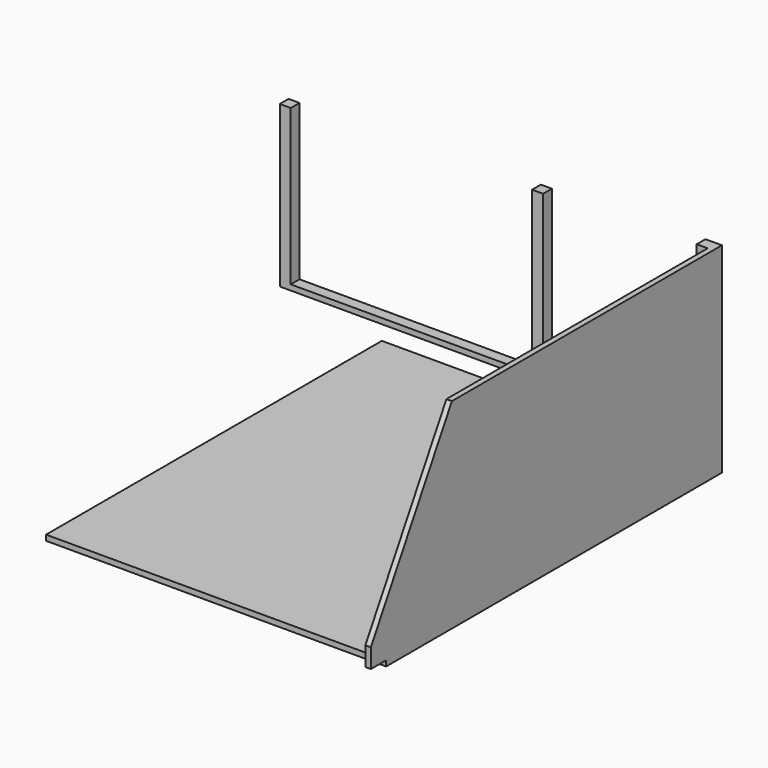
from build123d import *

# Parameters (mm, degrees)
F1_DEPTH = 20
F2_W     = 20
F2_H     = 315
F3_DEPTH = 10
F4_SIZE2 = 184.7520861407
F4_SIZE  = 320
F5_W     = 610
F5_H     = 765
F5_W_2   = 10
F6_DEPTH = 10


with BuildPart() as f1:
    # F0 (on Front) → F1 (new body)
    with BuildSketch(Plane.XZ):
        Polygon((0, 293), (0, 0), (780, 0), (780, 315), (760, 315), (760, 10), (480, 10), (480, 305), (460, 305), (460, 10), (20, 10), (20, 293), align=None)
    extrude(amount=F1_DEPTH)

    # F2 (on face) → F3 (join)
    with BuildSketch(Plane.YZ.offset(780)):
        Polygon((-20, 0), (-20, 315), (-800, 315), (-800, -40), (0, -40), (0, 0), align=None)
        with Locations((-10, 157.5)):
            Rectangle(F2_W, F2_H)
    extrude(amount=F3_DEPTH)

    # F4
    f4_edges = [f1.edges().sort_by_distance(p)[0] for p in [
        (785, -800, 315),
    ]]
    f4_side = f1.faces().sort_by_distance((785, -800, 137.5))[0]
    chamfer(f4_edges, length=F4_SIZE, length2=F4_SIZE2, reference=f4_side)

    # F5 (on face) → F6 (join)
    with BuildSketch(Plane(origin=(0, 0, -40), x_dir=(1, 0, 0), z_dir=(0, 0, -1))):
        with Locations((475, 382.5)):
            Rectangle(F5_W, F5_H)
        with Locations((785, 382.5)):
            Rectangle(F5_W_2, F5_H)
    extrude(amount=F6_DEPTH)


solid = f1.part
